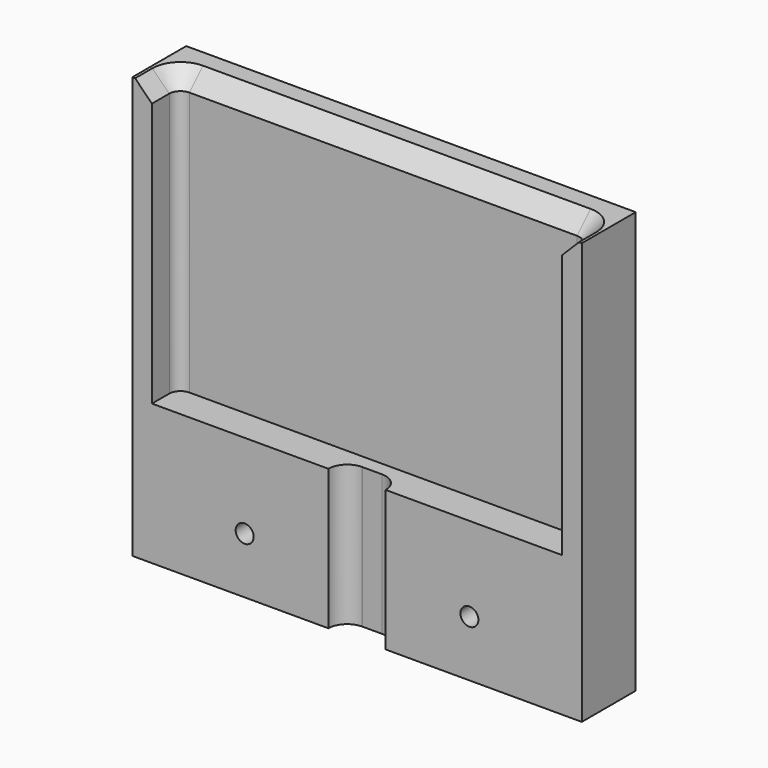
from build123d import *

# Parameters (mm, degrees)
F0_R     = 1.475
F1_DEPTH = 25
F2_R     = 1.6
F3_DEPTH = 30
F2_R_2   = 4
F4_DEPTH = 5
F5_R     = 1.475
F6_DEPTH = 50
F7_SIZE  = 3
F8_DEPTH = 20
F9_SIZE  = 1


with BuildPart() as f1:
    # F0 (on Top) → F1 (new body)
    with BuildSketch(Plane.XY):
        with BuildLine():
            ThreePointArc((-5.1, 0), (-4.141202, 2.3462), (-1.81364, 3.349395))
            ThreePointArc((-1.81364, 3.349395), (-1.750568, 3.35), (-1.687497, 3.349417))
            Line((-1.687497, 3.349417), (1.749432, 3.35))
            ThreePointArc((1.749432, 3.35), (4.118607, 2.369009), (5.1, 0))
            Line((5.1, 0), (40, 0))
            Line((40, 0), (40, 12))
            Line((40, 12), (-40, 12))
            Line((-40, 12), (-40, 0))
            Line((-40, 0), (-5.1, 0))
        make_face()
        with Locations((-8, 8)):
            Circle(F0_R, mode=Mode.SUBTRACT)
        with Locations((8, 8)):
            Circle(F0_R, mode=Mode.SUBTRACT)
    extrude(amount=F1_DEPTH)

    # F2 (on face) → F3 (cut)
    with BuildSketch(Plane(origin=(0, 12, 0), x_dir=(-1, 0, 0), z_dir=(0, 1, 0))):
        with Locations((-20, 10)):
            Circle(F2_R)
        with Locations((20, 10)):
            Circle(F2_R)
    extrude(amount=-F3_DEPTH, mode=Mode.SUBTRACT)

    # F2 (on face) → F4 (cut)
    with BuildSketch(Plane(origin=(0, 12, 0), x_dir=(-1, 0, 0), z_dir=(0, 1, 0))):
        with Locations((-20, 10)):
            Circle(F2_R_2)
        with Locations((-20, 10)):
            Circle(F2_R, mode=Mode.SUBTRACT)
        with Locations((20, 10)):
            Circle(F2_R_2)
        with Locations((20, 10)):
            Circle(F2_R, mode=Mode.SUBTRACT)
    extrude(amount=-F4_DEPTH, mode=Mode.SUBTRACT)

    # F5 (on face) → F6 (join)
    with BuildSketch(Plane.XY.offset(25)):
        with BuildLine():
            Line((40, 12), (-40, 12))
            Line((-40, 12), (-40, 0))
            Line((-40, 0), (-36.5, 0))
            Line((-36.5, 0), (-36.5, 3.849708))
            ThreePointArc((-36.5, 3.849708), (-35.914214, 5.263922), (-34.5, 5.849708))
            Line((-34.5, 5.849708), (34.5, 5.849708))
            ThreePointArc((34.5, 5.849708), (35.914214, 5.263922), (36.5, 3.849708))
            Line((36.5, 3.849708), (36.5, 0))
            Line((36.5, 0), (40, 0))
            Line((40, 0), (40, 12))
        make_face()
        with Locations((-8, 8)):
            Circle(F5_R, mode=Mode.SUBTRACT)
        with Locations((8, 8)):
            Circle(F5_R, mode=Mode.SUBTRACT)
        with Locations((-8, 8)):
            Circle(F5_R)
        with Locations((8, 8)):
            Circle(F5_R)
    extrude(amount=F6_DEPTH)

    # F7
    f7_edges = [f1.edges().sort_by_distance(p)[0] for p in [
        (0, 5.849708, 75),
    ]]
    chamfer(f7_edges, length=F7_SIZE)

    # F0 (on Top) → F8 (cut)
    with BuildSketch(Plane.XY):
        with Locations((-8, 8)):
            Circle(F0_R)
        with Locations((8, 8)):
            Circle(F0_R)
    extrude(amount=F8_DEPTH, mode=Mode.SUBTRACT)

    # F9
    f9_edges = [f1.edges().sort_by_distance(p)[0] for p in [
        (-9.475, 8, 0),
        (6.525, 8, 0),
    ]]
    chamfer(f9_edges, length=F9_SIZE)


solid = f1.part
